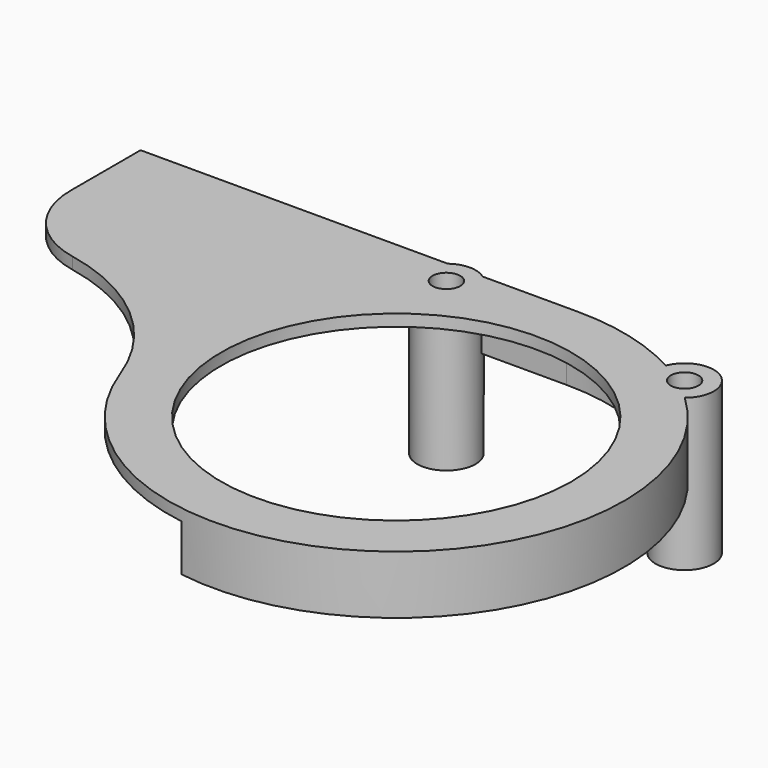
from build123d import *

# Parameters (mm, degrees)
SKETCH_R        = 60
PAD_DEPTH       = 20
POCKET_DEPTH    = 16
SKETCH002_R     = 10
PAD001_DEPTH    = 52
SKETCH003_R     = 2.75
POCKET001_DEPTH = 52.001
SKETCH004_R     = 4.75
POCKET002_DEPTH = 5


with BuildPart() as part:
    # Sketch → Pad (new body)
    with BuildSketch(Plane.XY):
        with BuildLine():
            Line((0, 78), (-150, 78))
            Line((-150, 78), (-150, 48))
            ThreePointArc((-150, 48), (-143.193791, 28.97244), (-125.863464, 18.578583))
            ThreePointArc((-73.335895, -26.567772), (-93.676152, 2.897401), (-125.863464, 18.578583))
            ThreePointArc((-73.335895, -26.567772), (63.860341, -44.786794), (0, 78))
        make_face()
        Circle(SKETCH_R, mode=Mode.SUBTRACT)
    extrude(amount=PAD_DEPTH)

    # Sketch001 (on Face7 of Pad) → Pocket (cut)
    with BuildSketch(Plane(origin=(0, 0, 0), x_dir=(1, 0, 0), z_dir=(0, 0, -1))):
        with BuildLine():
            Line((-185.14, -73), (0, -73))
            ThreePointArc((0, -73), (72.609527, -7.540333), (15, 71.442284))
            Line((15, 71.442284), (-105.864687, 96.818997))
            Line((-105.864687, 96.818997), (-185.14, -73))
        make_face()
    extrude(amount=-POCKET_DEPTH, mode=Mode.SUBTRACT)

    # Sketch002 (on Face5 of Pocket) → Pad001 (join)
    with BuildSketch(Plane.XY.offset(20)):
        with Locations((-38.78477, 69.969577)):
            Circle(SKETCH002_R)
        with Locations((47.02282, 64.72136)):
            Circle(SKETCH002_R)
    extrude(amount=-PAD001_DEPTH)

    # Sketch003 (on Face22 of Pad001) → Pocket001 (cut, through all)
    with BuildSketch(Plane.XY.offset(20)):
        with Locations((-38.78477, 69.969577)):
            Circle(SKETCH003_R)
        with Locations((47.02282, 64.72136)):
            Circle(SKETCH003_R)
    extrude(amount=-POCKET001_DEPTH, mode=Mode.SUBTRACT)

    # Sketch004 (on Face20 of Pocket001) → Pocket002 (cut)
    with BuildSketch(Plane.XY.offset(20)):
        with Locations((-38.78477, 69.969577)):
            Circle(SKETCH004_R)
        with Locations((47.02282, 64.72136)):
            Circle(SKETCH004_R)
    extrude(amount=-POCKET002_DEPTH, mode=Mode.SUBTRACT)


solid = part.part
